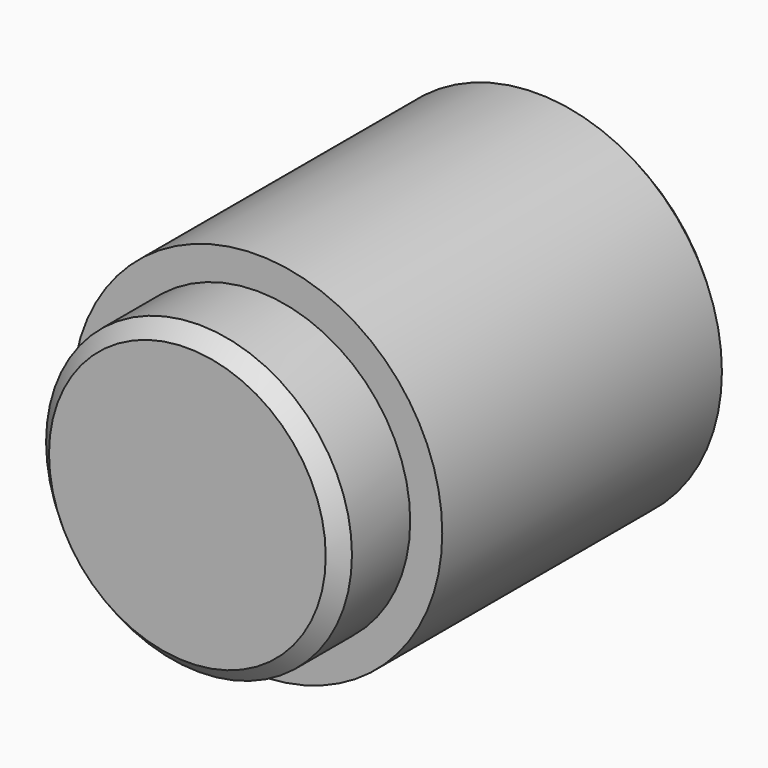
from build123d import *

# Parameters (mm, degrees)
F0_R     = 12.7
F1_DEPTH = 25
F2_R     = 10.5
F3_DEPTH = 6
F4_SIZE  = 1
F6_D     = 8
F6_DEPTH = 18
F6_TIP   = 2.4034424761


with BuildPart() as f1:
    # F0 (on Front) → F1 (new body)
    with BuildSketch(Plane.XZ):
        Circle(F0_R)
    extrude(amount=F1_DEPTH)

    # F2 (on face) → F3 (join)
    with BuildSketch(Plane.XZ.offset(25)):
        Circle(F2_R)
    extrude(amount=F3_DEPTH)

    # F4
    f4_edges = [f1.edges().sort_by_distance(p)[0] for p in [
        (-10.5, -31, 0),
        (-12.7, 0, 0),
    ]]
    chamfer(f4_edges, length=F4_SIZE)

    # F6
    with Locations(Plane(origin=(0, 0, 0), x_dir=(-1, 0, 0), z_dir=(0, 1, 0))):
        with Locations((0, 0)):
            Hole(F6_D / 2, depth=F6_DEPTH)
            with Locations((0, 0, -(F6_DEPTH + F6_TIP / 2))):  # 118° drill point
                Cone(0, F6_D / 2, F6_TIP, mode=Mode.SUBTRACT)


solid = f1.part
